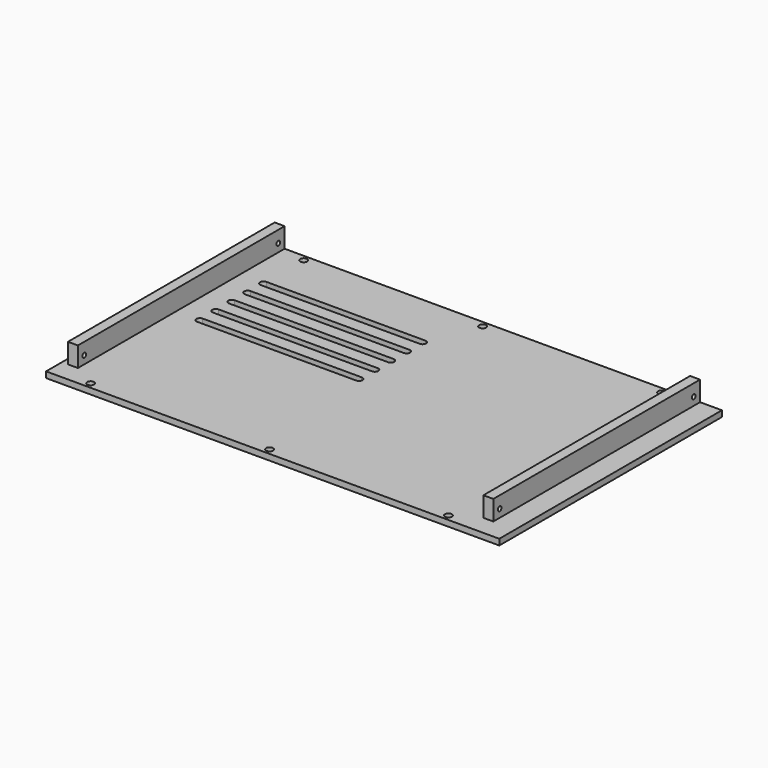
from build123d import *

# Parameters (mm, degrees)
SKETCH_W     = 228
SKETCH_H     = 140
SKETCH_R     = 1.75
PAD_DEPTH    = 3
SKETCH001_W  = 5
SKETCH001_H  = 130
PAD001_DEPTH = 13
SKETCH002_R  = 1.15
POCKET_DEPTH = 112.5


with BuildPart() as part:
    # Sketch → Pad (new body)
    with BuildSketch(Plane.XY):
        with Locations((4, 0)):
            Rectangle(SKETCH_W, SKETCH_H)
        with Locations((-90, 67)):
            Circle(SKETCH_R, mode=Mode.SUBTRACT)
        with Locations((0, 67)):
            Circle(SKETCH_R, mode=Mode.SUBTRACT)
        with Locations((90, 67)):
            Circle(SKETCH_R, mode=Mode.SUBTRACT)
        with Locations((-90, -67)):
            Circle(SKETCH_R, mode=Mode.SUBTRACT)
        with Locations((0, -67)):
            Circle(SKETCH_R, mode=Mode.SUBTRACT)
        with Locations((90, -67)):
            Circle(SKETCH_R, mode=Mode.SUBTRACT)
        with BuildLine():
            ThreePointArc((-90, 43.5), (-91.75, 41.75), (-90, 40))
            Line((-90, 40), (-10, 40))
            ThreePointArc((-10, 40), (-8.25, 41.75), (-10, 43.5))
            Line((-90, 43.5), (-10, 43.5))
        make_face(mode=Mode.SUBTRACT)
        with BuildLine():
            ThreePointArc((-90, 33.5), (-91.75, 31.75), (-90, 30))
            Line((-90, 30), (-10, 30))
            ThreePointArc((-10, 30), (-8.25, 31.75), (-10, 33.5))
            Line((-90, 33.5), (-10, 33.5))
        make_face(mode=Mode.SUBTRACT)
        with BuildLine():
            ThreePointArc((-90, 23.5), (-91.75, 21.75), (-90, 20))
            Line((-90, 20), (-10, 20))
            ThreePointArc((-10, 20), (-8.25, 21.75), (-10, 23.5))
            Line((-90, 23.5), (-10, 23.5))
        make_face(mode=Mode.SUBTRACT)
        with BuildLine():
            ThreePointArc((-90, 13.5), (-91.75, 11.75), (-90, 10))
            Line((-90, 10), (-10, 10))
            ThreePointArc((-10, 10), (-8.25, 11.75), (-10, 13.5))
            Line((-90, 13.5), (-10, 13.5))
        make_face(mode=Mode.SUBTRACT)
        with BuildLine():
            ThreePointArc((-90, 3.5), (-91.75, 1.75), (-90, 0))
            Line((-90, 0), (-10, 0))
            ThreePointArc((-10, 0), (-8.25, 1.75), (-10, 3.5))
            Line((-90, 3.5), (-10, 3.5))
        make_face(mode=Mode.SUBTRACT)
    extrude(amount=PAD_DEPTH)

    # Sketch001 → Pad001 (join)
    with BuildSketch(Plane.XY):
        with Locations((104.5, 5)):
            Rectangle(SKETCH001_W, SKETCH001_H)
        with Locations((-104.5, 5)):
            Rectangle(SKETCH001_W, SKETCH001_H)
    extrude(amount=PAD001_DEPTH)

    # Sketch002 → Pocket (cut, symmetric)
    with BuildSketch(Plane.YZ):
        with Locations((-56, 7)):
            Circle(SKETCH002_R)
        with Locations((66, 7)):
            Circle(SKETCH002_R)
    extrude(amount=POCKET_DEPTH, both=True, mode=Mode.SUBTRACT)


solid = part.part
